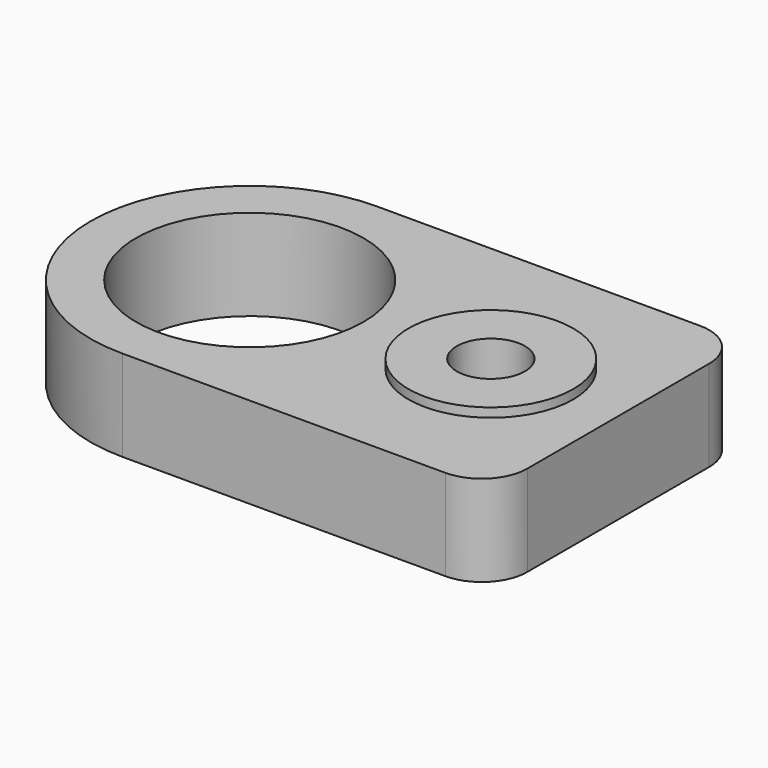
from build123d import *

# Parameters (mm, degrees)
F0_R     = 12.5
F1_DEPTH = 10
F2_R     = 9.05
F2_R_2   = 3.75
F3_DEPTH = 1
F4_DEPTH = 7.5


with BuildPart() as f1:
    # F0 (on Top) → F1 (new body)
    with BuildSketch(Plane.XY):
        with BuildLine():
            ThreePointArc((0, 17.5), (5.125631, 5.125631), (17.5, 0))
            Line((17.5, 0), (53, 0))
            ThreePointArc((53, 0), (56.535534, 1.464466), (58, 5))
            Line((58, 5), (58, 30))
            ThreePointArc((58, 30), (56.535534, 33.535534), (53, 35))
            Line((53, 35), (17.5, 35))
            ThreePointArc((17.5, 35), (5.125631, 29.874369), (0, 17.5))
        make_face()
        with Locations((17.5, 17.5)):
            Circle(F0_R, mode=Mode.SUBTRACT)
    extrude(amount=F1_DEPTH)

    # F2 (on face) → F3 (join)
    with BuildSketch(Plane.XY.offset(10)):
        with Locations((44, 17.5)):
            Circle(F2_R)
        with Locations((44, 17.5)):
            Circle(F2_R_2, mode=Mode.SUBTRACT)
    extrude(amount=F3_DEPTH)

    # F2 (on face) → F4 (cut)
    with BuildSketch(Plane.XY.offset(10)):
        with Locations((44, 17.5)):
            Circle(F2_R_2)
    extrude(amount=-F4_DEPTH, mode=Mode.SUBTRACT)


solid = f1.part
